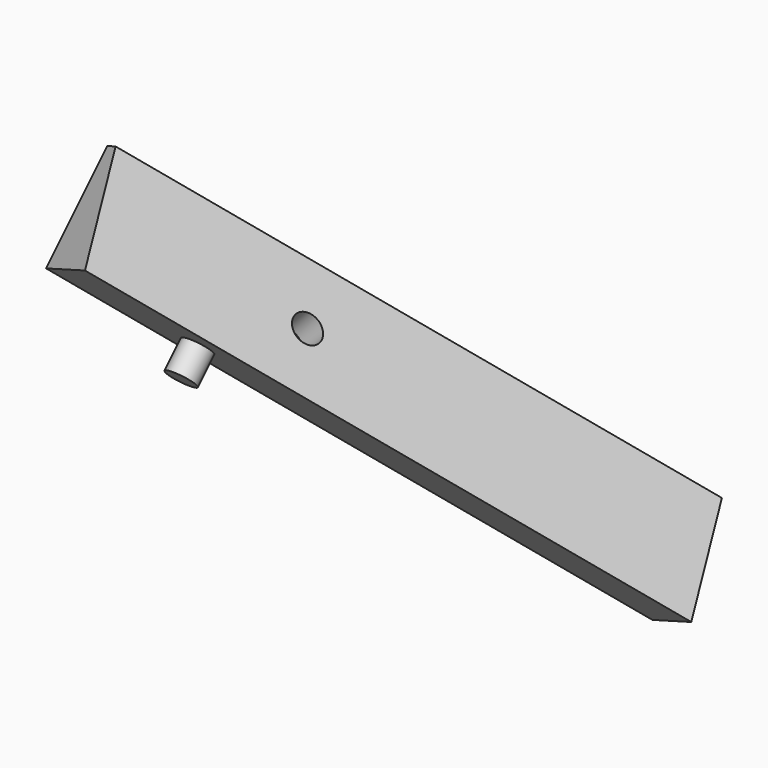
from build123d import *

# Parameters (mm, degrees)
PAD001_DEPTH            = 150
SKETCH001_R             = 7.5
PAD_DEPTH               = 15
SKETCH003_R             = 7.5
POCKET003_DEPTH         = 15
BODY004_PLACEMENT_ANGLE = 180


with BuildPart() as part:
    # Sketch002 (on DatumPlane) → Pad001 (new body, symmetric)
    with BuildSketch(Plane(origin=(0, -50, 50), x_dir=(0.816497, -0.408248, -0.408248), z_dir=(-0.57735, -0.57735, -0.57735))):
        Polygon((0, 0), (0, 55.710678), (-8.660254, 55.710678), (-40.824829, 0), align=None)
    extrude(amount=PAD001_DEPTH, both=True)

    # Sketch001 (on Face7 of Binder001) → Pad (join)
    with BuildSketch(Plane(origin=(0, -50, 50), x_dir=(1, 0, 0), z_dir=(0, -0.707107, 0.707107))):
        with Locations((32.196959, 80.888716)):
            Circle(SKETCH001_R)
    extrude(amount=-PAD_DEPTH)

    # Sketch003 (on Face6 of Pad) → Pocket003 (cut)
    with BuildSketch(Plane(origin=(-25, -50, 75), x_dir=(-0.408248, 0.816497, -0.408248), z_dir=(-0.707107, 0, 0.707107))):
        with Locations((-11.75216, -47.456286)):
            Circle(SKETCH003_R)
    extrude(amount=-POCKET003_DEPTH, mode=Mode.SUBTRACT)


with BuildPart() as part_1:
    # Body004 placement: moved
    add(part.part.rotate(Axis((0, 0, 0), (0, 0, 1)), BODY004_PLACEMENT_ANGLE))


solid = part_1.part
